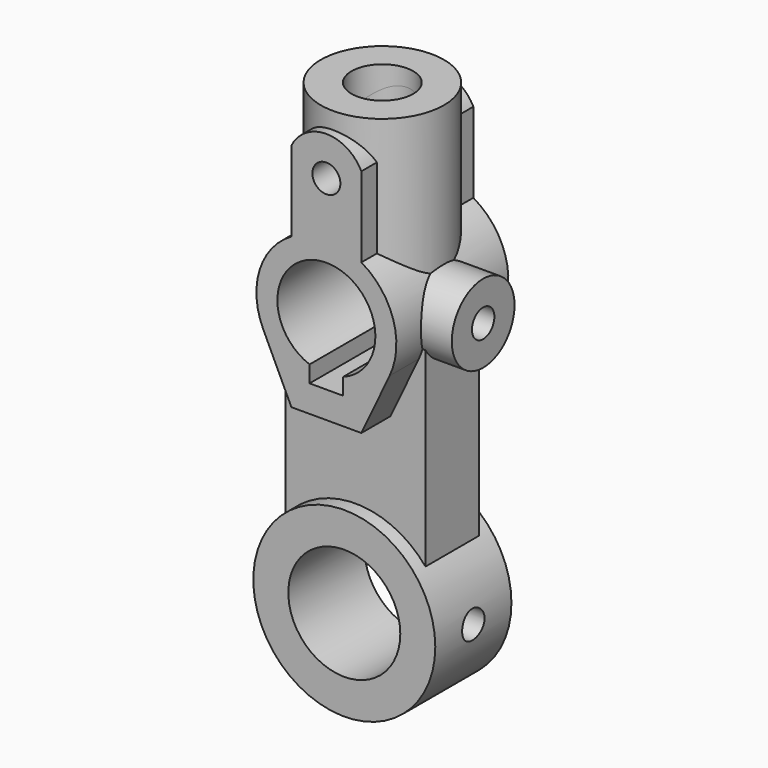
from build123d import *

# Parameters (mm, degrees)
F0_R           = 32.5
F0_R_2         = 20
F1_DEPTH       = 17
F2_W           = 50
F2_H           = 96
F3_DEPTH       = 12
F4_DEPTH       = 29.001
F5_R           = 5
F6_DEPTH       = 25
F7_DEPTH       = 37.001
F8_R           = 14
F8_R_2         = 5
F9_DEPTH       = 36
F10_R          = 17.5
F11_DEPTH      = 25.0010001
F11_DEPTH_BACK = 25.0010001
F13_R          = 22
F13_R_2        = 11
F16_DEPTH      = 56
F15_R          = 5
F17_DEPTH      = 36.0010001


with BuildPart() as f1:
    # F0 (on Front) → F1 (new body, symmetric)
    with BuildSketch(Plane.XZ):
        Circle(F0_R)
        Circle(F0_R_2, mode=Mode.SUBTRACT)
    extrude(amount=F1_DEPTH, both=True)

    # F2 (on Front) → F3 (join, symmetric)
    with BuildSketch(Plane.XZ):
        with Locations((0, 48)):
            Rectangle(F2_W, F2_H)
    extrude(amount=F3_DEPTH, both=True)

    # F4 (cut, through all): a face of the model
    f4_faces = [f1.faces().sort_by_distance(p)[0] for p in [
        (0, -12, 8.4882636316),
    ]]
    extrude(f4_faces, amount=-F4_DEPTH, mode=Mode.SUBTRACT)

    # F5 (on Front) → F6 (join, symmetric)
    with BuildSketch(Plane.XZ):
        with BuildLine():
            Line((-22.59139561, 85.2935139102), (-12.5, 64))
            Line((-12.5, 64), (12.5, 64))
            Line((12.5, 64), (22.59139561, 85.2935139102))
            ThreePointArc((22.59139561, 85.2935139102), (23.8662383777, 103.4432966956), (12.5, 117.6506350946))
            Line((12.5, 117.6506350946), (12.5, 146.3047601065))
            ThreePointArc((12.5, 146.3047601065), (0, 154), (-12.5, 146.3047601065))
            Line((-12.5, 146.3047601065), (-12.5, 117.6506350946))
            ThreePointArc((-12.5, 117.6506350946), (-23.8662383777, 103.4432966956), (-22.59139561, 85.2935139102))
        make_face()
        with BuildLine():
            ThreePointArc((-6, 79.5607177772), (0, 113.5), (6, 79.5607177772))
            Line((6, 79.5607177772), (6, 73.6))
            Line((6, 73.6), (-6, 73.6))
            Line((-6, 73.6), (-6, 79.5607177772))
        make_face(mode=Mode.SUBTRACT)
        with Locations((0, 140)):
            Circle(F5_R, mode=Mode.SUBTRACT)
    extrude(amount=F6_DEPTH, both=True)

    # F7 (cut, through all): a face of the model
    f7_faces = [f1.faces().sort_by_distance(p)[0] for p in [
        (0, -12, 87.144181228),
    ]]
    extrude(f7_faces, amount=-F7_DEPTH, mode=Mode.SUBTRACT)

    # F8 (on Right) → F9 (join)
    with BuildSketch(Plane.YZ):
        with Locations((0, 96)):
            Circle(F8_R)
        with Locations((0, 96)):
            Circle(F8_R_2, mode=Mode.SUBTRACT)
    extrude(amount=F9_DEPTH)

    # F10 (on Front) → F11 (cut, two sides)
    with BuildSketch(Plane.XZ) as f11_sk:
        with Locations((0, 96)):
            Circle(F10_R)
    extrude(amount=-F11_DEPTH, mode=Mode.SUBTRACT)
    extrude(f11_sk.sketch, amount=F11_DEPTH_BACK, mode=Mode.SUBTRACT)

    # F13 (on offset) → F14 (join, up to the next surface of F1)
    with BuildSketch(Plane.XY.offset(160)):
        Circle(F13_R)
        Circle(F13_R_2, mode=Mode.SUBTRACT)
    extrude(until=Until.NEXT, dir=(0, 0, -1))

    # F13 (on offset) → F16 (cut)
    with BuildSketch(Plane.XY.offset(160)):
        Circle(F13_R_2)
    extrude(amount=-F16_DEPTH, mode=Mode.SUBTRACT)

    # F15 (on Right) → F17 (cut, through all)
    with BuildSketch(Plane.YZ):
        Circle(F15_R)
    extrude(amount=F17_DEPTH, mode=Mode.SUBTRACT)


solid = f1.part
